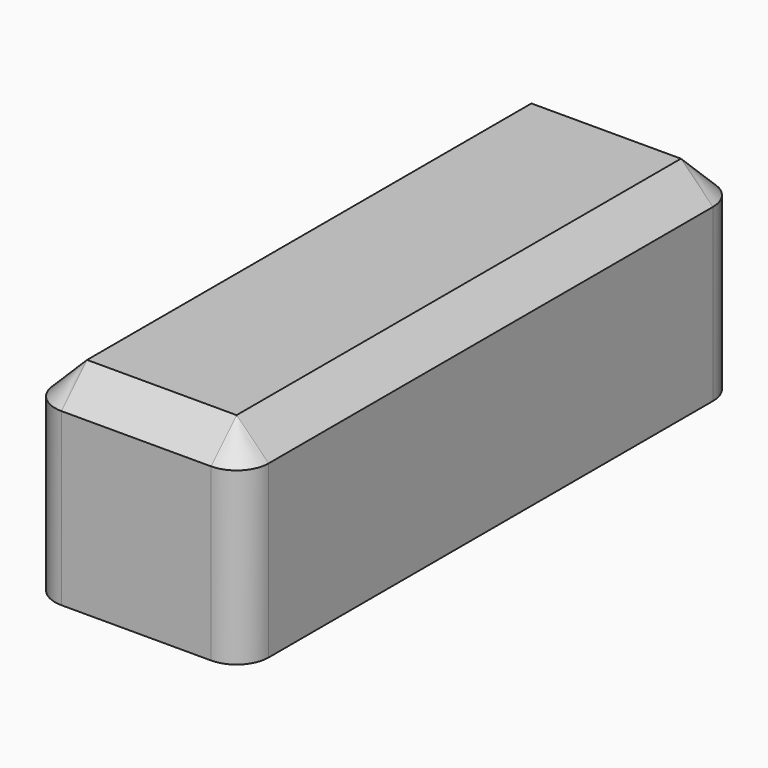
from build123d import *

# Parameters (mm, degrees)
F0_W     = 20
F0_H     = 58
F1_DEPTH = 19
F2_R     = 1.5
F3_DEPTH = 17.000001
F4_R     = 3
F5_SIZE  = 3


with BuildPart() as f1:
    # F0 (on Top) → F1 (new body)
    with BuildSketch(Plane.XY):
        Rectangle(F0_W, F0_H)
    extrude(amount=F1_DEPTH)

    # F2 (on Top) → F3 (cut)
    with BuildSketch(Plane.XY):
        with Locations((0, 12)):
            Circle(F2_R)
        with Locations((0, -15)):
            Circle(F2_R)
    extrude(amount=F3_DEPTH, mode=Mode.SUBTRACT)

    # F4
    f4_edges = [f1.edges().sort_by_distance(p)[0] for p in [
        (-10, 29, 9.5),
        (10, 29, 9.5),
        (-10, -29, 9.5),
        (10, -29, 9.5),
    ]]
    fillet(f4_edges, radius=F4_R)

    # F5
    f5_edges = [f1.edges().sort_by_distance(p)[0] for p in [
        (-10, 0, 19),
    ]]
    chamfer(f5_edges, length=F5_SIZE)


solid = f1.part
